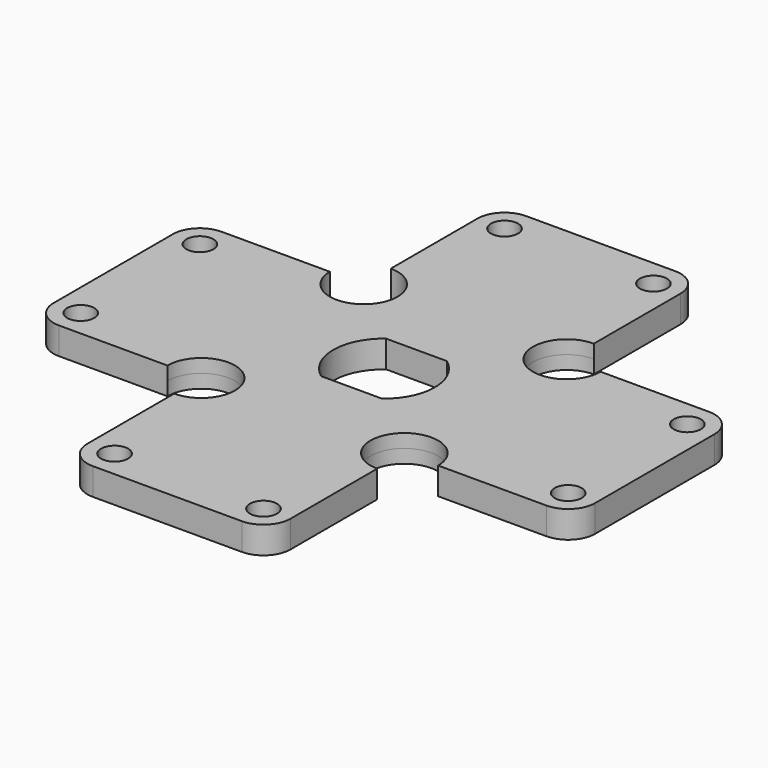
from build123d import *

# Parameters (mm, degrees)
F1_R          = 2
F3_DEPTH      = 2
F4_DEPTH      = 2.001
F4_DEPTH_BACK = 2.001
F2_R          = 5
F5_DEPTH      = 2.001
F5_DEPTH_BACK = 2.001


with BuildPart() as f3:
    # F1 (on Top) → F3 (new body, symmetric)
    with BuildSketch(Plane.XY):
        with BuildLine():
            Line((-15, 36), (-15, 15))
            Line((-15, 15), (-36, 15))
            ThreePointArc((-36, 15), (-38.8284271247, 13.8284271247), (-40, 11))
            Line((-40, 11), (-40, 0))
            Line((-40, 0), (-40, -11))
            ThreePointArc((-40, -11), (-38.8284271247, -13.8284271247), (-36, -15))
            Line((-36, -15), (-15, -15))
            Line((-15, -15), (-15, -36))
            ThreePointArc((-15, -36), (-13.8284271247, -38.8284271247), (-11, -40))
            Line((-11, -40), (0, -40))
            Line((0, -40), (11, -40))
            ThreePointArc((11, -40), (13.8284271247, -38.8284271247), (15, -36))
            Line((15, -36), (15, -15))
            Line((15, -15), (36, -15))
            ThreePointArc((36, -15), (38.8284271247, -13.8284271247), (40, -11))
            Line((40, -11), (40, 0))
            Line((40, 0), (40, 11))
            ThreePointArc((40, 11), (38.8284271247, 13.8284271247), (36, 15))
            Line((36, 15), (15, 15))
            Line((15, 15), (15, 36))
            ThreePointArc((15, 36), (13.8284271247, 38.8284271247), (11, 40))
            Line((11, 40), (0, 40))
            Line((0, 40), (-11, 40))
            ThreePointArc((-11, 40), (-13.8284271247, 38.8284271247), (-15, 36))
        make_face()
        with Locations((-11, -36)):
            Circle(F1_R, mode=Mode.SUBTRACT)
        with Locations((-36, -11)):
            Circle(F1_R, mode=Mode.SUBTRACT)
        with Locations((11, -36)):
            Circle(F1_R, mode=Mode.SUBTRACT)
        with Locations((36, -11)):
            Circle(F1_R, mode=Mode.SUBTRACT)
        with Locations((-36, 11)):
            Circle(F1_R, mode=Mode.SUBTRACT)
        with Locations((-11, 36)):
            Circle(F1_R, mode=Mode.SUBTRACT)
        with Locations((36, 11)):
            Circle(F1_R, mode=Mode.SUBTRACT)
        with Locations((11, 36)):
            Circle(F1_R, mode=Mode.SUBTRACT)
    extrude(amount=F3_DEPTH, both=True)

    # F0 (on Top) → F4 (cut, two sides)
    with BuildSketch(Plane.XY) as f4_sk:
        with BuildLine():
            Line((4.5, 6), (-4.5, 6))
            ThreePointArc((-4.5, 6), (-7.5, 0), (-4.5, -6))
            Line((-4.5, -6), (4.5, -6))
            ThreePointArc((4.5, -6), (7.5, 0), (4.5, 6))
        make_face()
    extrude(amount=-F4_DEPTH, mode=Mode.SUBTRACT)
    extrude(f4_sk.sketch, amount=F4_DEPTH_BACK, mode=Mode.SUBTRACT)

    # F2 (on Top) → F5 (cut, two sides)
    with BuildSketch(Plane.XY) as f5_sk:
        with Locations((-15, 15)):
            Circle(F2_R)
        with Locations((-15, -15)):
            Circle(F2_R)
        with Locations((15, -15)):
            Circle(F2_R)
        with Locations((15, 15)):
            Circle(F2_R)
    extrude(amount=-F5_DEPTH, mode=Mode.SUBTRACT)
    extrude(f5_sk.sketch, amount=F5_DEPTH_BACK, mode=Mode.SUBTRACT)


solid = f3.part
